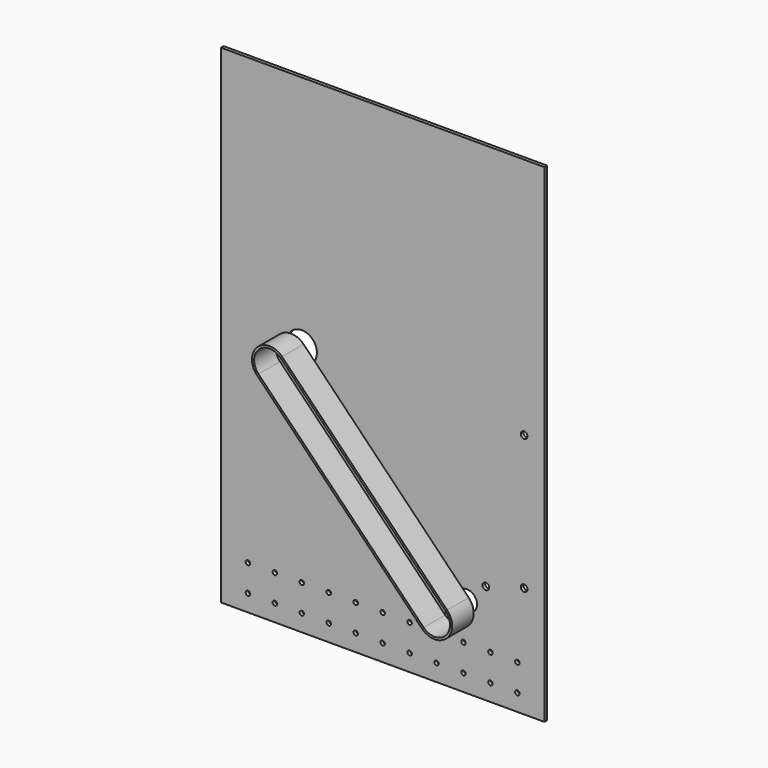
from build123d import *

# Parameters (mm, degrees)
F1_W     = 304.8
F1_H     = 406.4
F1_R     = 3.175
F1_R_2   = 9.525
F1_R_3   = 14.224
F1_H_2   = 53.975
F1_R_4   = 2.1082
F2_DEPTH = 3.175
F5_DEPTH = 25.4


with BuildPart() as f2:
    # F1 (on Front) → F2 (new body)
    with BuildSketch(Plane.XZ):
        with Locations((76.2, 20.6375)):
            Rectangle(F1_W, F1_H)
        with Locations((137.9289627726, -177.4317)):
            Circle(F1_R, mode=Mode.SUBTRACT)
        with Locations((155.6581627726, -159.7025)):
            Circle(F1_R_2, mode=Mode.SUBTRACT)
        with Locations((173.3873627726, -141.9733)):
            Circle(F1_R, mode=Mode.SUBTRACT)
        with Locations((209.55, -131.7625)):
            Circle(F1_R, mode=Mode.SUBTRACT)
        Circle(F1_R_3, mode=Mode.SUBTRACT)
        with Locations((209.55, -4.7625)):
            Circle(F1_R, mode=Mode.SUBTRACT)
        with Locations((76.2, -209.55)):
            Rectangle(F1_W, F1_H_2)
        with Locations((-50.8, -220.6625)):
            Circle(F1_R_4, mode=Mode.SUBTRACT)
        with Locations((-50.8, -195.2625)):
            Circle(F1_R_4, mode=Mode.SUBTRACT)
        with Locations((-25.4, -220.6625)):
            Circle(F1_R_4, mode=Mode.SUBTRACT)
        with Locations((-25.4, -195.2625)):
            Circle(F1_R_4, mode=Mode.SUBTRACT)
        with Locations((0, -220.6625)):
            Circle(F1_R_4, mode=Mode.SUBTRACT)
        with Locations((25.4, -220.6625)):
            Circle(F1_R_4, mode=Mode.SUBTRACT)
        with Locations((0, -195.2625)):
            Circle(F1_R_4, mode=Mode.SUBTRACT)
        with Locations((25.4, -195.2625)):
            Circle(F1_R_4, mode=Mode.SUBTRACT)
        with Locations((50.8, -220.6625)):
            Circle(F1_R_4, mode=Mode.SUBTRACT)
        with Locations((50.8, -195.2625)):
            Circle(F1_R_4, mode=Mode.SUBTRACT)
        with Locations((76.2, -220.6625)):
            Circle(F1_R_4, mode=Mode.SUBTRACT)
        with Locations((101.6, -220.6625)):
            Circle(F1_R_4, mode=Mode.SUBTRACT)
        with Locations((76.2, -195.2625)):
            Circle(F1_R_4, mode=Mode.SUBTRACT)
        with Locations((101.6, -195.2625)):
            Circle(F1_R_4, mode=Mode.SUBTRACT)
        with Locations((127, -220.6625)):
            Circle(F1_R_4, mode=Mode.SUBTRACT)
        with Locations((127, -195.2625)):
            Circle(F1_R_4, mode=Mode.SUBTRACT)
        with Locations((152.4, -220.6625)):
            Circle(F1_R_4, mode=Mode.SUBTRACT)
        with Locations((177.8, -220.6625)):
            Circle(F1_R_4, mode=Mode.SUBTRACT)
        with Locations((152.4, -195.2625)):
            Circle(F1_R_4, mode=Mode.SUBTRACT)
        with Locations((177.8, -195.2625)):
            Circle(F1_R_4, mode=Mode.SUBTRACT)
        with Locations((203.2, -220.6625)):
            Circle(F1_R_4, mode=Mode.SUBTRACT)
        with Locations((203.2, -195.2625)):
            Circle(F1_R_4, mode=Mode.SUBTRACT)
    extrude(amount=F2_DEPTH)


with BuildPart() as f5:
    # F4 (on offset) → F5 (new body)
    with BuildSketch(Plane.XZ.offset(15.875)):
        with BuildLine():
            Line((-11.8230780182, -11.5236680868), (143.8350847544, -171.2261680868))
            ThreePointArc((143.8350847544, -171.2261680868), (167.1818308594, -171.5255780182), (167.4812407909, -148.1788319132))
            Line((167.4812407909, -148.1788319132), (11.8230780182, 11.5236680868))
            ThreePointArc((11.8230780182, 11.5236680868), (-11.5236680868, 11.8230780182), (-11.8230780182, -11.5236680868))
        make_face()
        with BuildLine():
            Line((10.3679299544, 10.1053704761), (166.0260927271, -149.5971295239))
            ThreePointArc((166.0260927271, -149.5971295239), (165.7635332488, -170.0704299544), (145.2902328182, -169.8078704761))
            Line((145.2902328182, -169.8078704761), (-10.3679299544, -10.1053704761))
            ThreePointArc((-10.3679299544, -10.1053704761), (-10.1053704761, 10.3679299544), (10.3679299544, 10.1053704761))
        make_face(mode=Mode.SUBTRACT)
    extrude(amount=F5_DEPTH)


solid = Compound([f2.part, f5.part])
